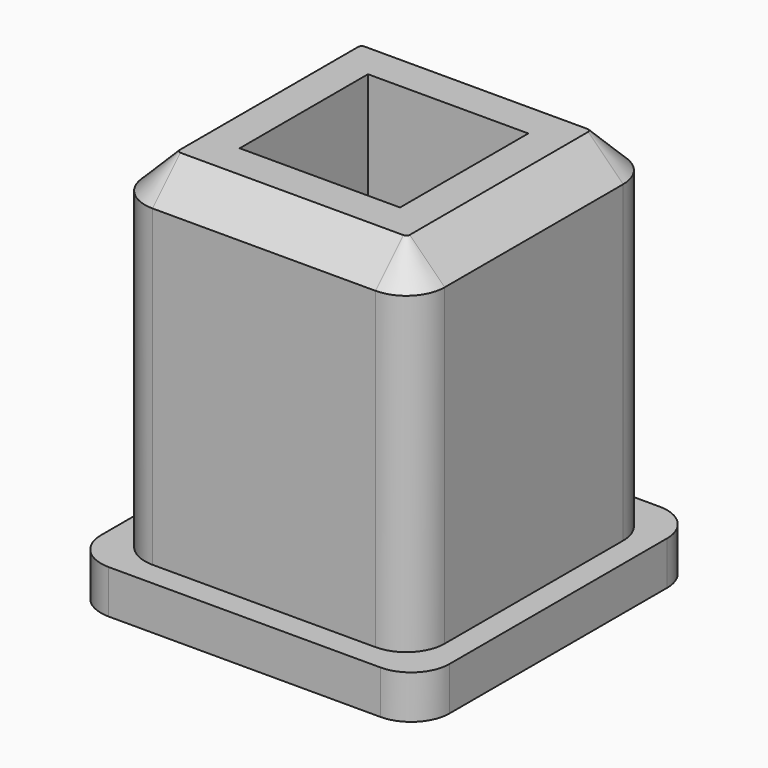
from build123d import *

# Parameters (mm, degrees)
F0_W     = 20
F0_H     = 20
F1_DEPTH = 2.5
F2_W     = 17.2
F2_H     = 17.2
F3_DEPTH = 20
F4_R     = 2.2
F5_W     = 9.2
F5_H     = 9.2
F6_DEPTH = 15.2
F7_SIZE  = 2


with BuildPart() as f1:
    # F0 (on Top) → F1 (new body)
    with BuildSketch(Plane.XY):
        Rectangle(F0_W, F0_H)
    extrude(amount=F1_DEPTH)

    # F2 (on face) → F3 (join)
    with BuildSketch(Plane.XY.offset(2.5)):
        Rectangle(F2_W, F2_H)
    extrude(amount=F3_DEPTH)

    # F4
    f4_edges = [f1.edges().sort_by_distance(p)[0] for p in [
        (-8.6, -8.6, 12.5),
        (-8.6, 8.6, 12.5),
        (8.6, 8.6, 12.5),
        (8.6, -8.6, 12.5),
        (10, -10, 1.25),
        (10, 10, 1.25),
        (-10, -10, 1.25),
        (-10, 10, 1.25),
    ]]
    fillet(f4_edges, radius=F4_R)

    # F5 (on face) → F6 (cut)
    with BuildSketch(Plane.XY.offset(22.5)):
        Rectangle(F5_W, F5_H)
    extrude(amount=-F6_DEPTH, mode=Mode.SUBTRACT)

    # F7
    f7_edges = [f1.edges().sort_by_distance(p)[0] for p in [
        (0, 8.6, 22.5),
    ]]
    chamfer(f7_edges, length=F7_SIZE)


solid = f1.part
